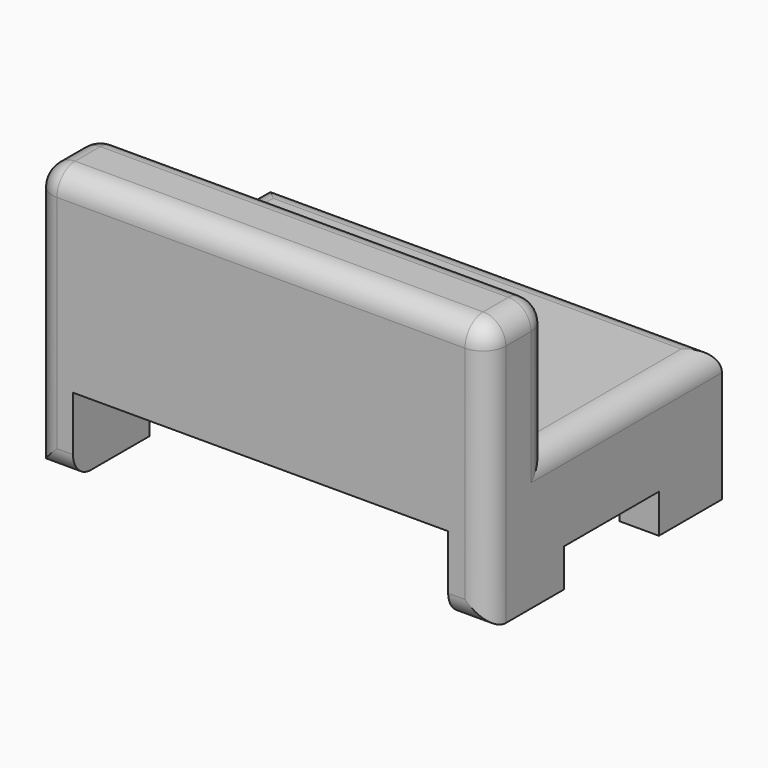
from build123d import *

# Parameters (mm, degrees)
F1_DEPTH = 101.6
F2_R     = 5.08
F3_W     = 84.073769
F3_H     = 17.519306
F4_DEPTH = 65.613113


with BuildPart() as f1:
    # F0 (on Right) → F1 (new body)
    with BuildSketch(Plane.YZ):
        Polygon((-46.600301, 33.859685), (-63.820757, 33.859685), (-63.820757, -25.866956), (-42.458672, -25.866956), (-42.458672, -17.365716), (-15.865058, -17.365716), (-15.865058, -26.084935), (1.791356, -26.084935), (1.791356, 3.996365), (-46.600301, 3.996365), align=None)
    extrude(amount=F1_DEPTH)

    # F2
    f2_edges = [f1.edges().sort_by_distance(p)[0] for p in [
        (50.8, -63.820757, 33.859685),
        (50.8, -63.820757, -25.866956),
        (0, -63.820757, 3.996365),
        (101.6, -63.820757, 3.996365),
        (50.8, 1.791356, 3.996365),
        (101.6, -22.404472, 3.996365),
        (0, -22.404472, 3.996365),
        (0, -55.210529, 33.859685),
        (50.8, -46.600301, 33.859685),
        (101.6, -55.210529, 33.859685),
        (101.6, -46.600301, 18.928025),
        (0, -46.600301, 18.928025),
    ]]
    fillet(f2_edges, radius=F2_R)

    # F3 (on face) → F4 (cut, through all)
    with BuildSketch(Plane(origin=(0, 1.791356, 0), x_dir=(-1, 0, 0), z_dir=(0, 1, 0))):
        with Locations((-50.707488, -17.325282)):
            Rectangle(F3_W, F3_H)
    extrude(amount=-F4_DEPTH, mode=Mode.SUBTRACT)


solid = f1.part
